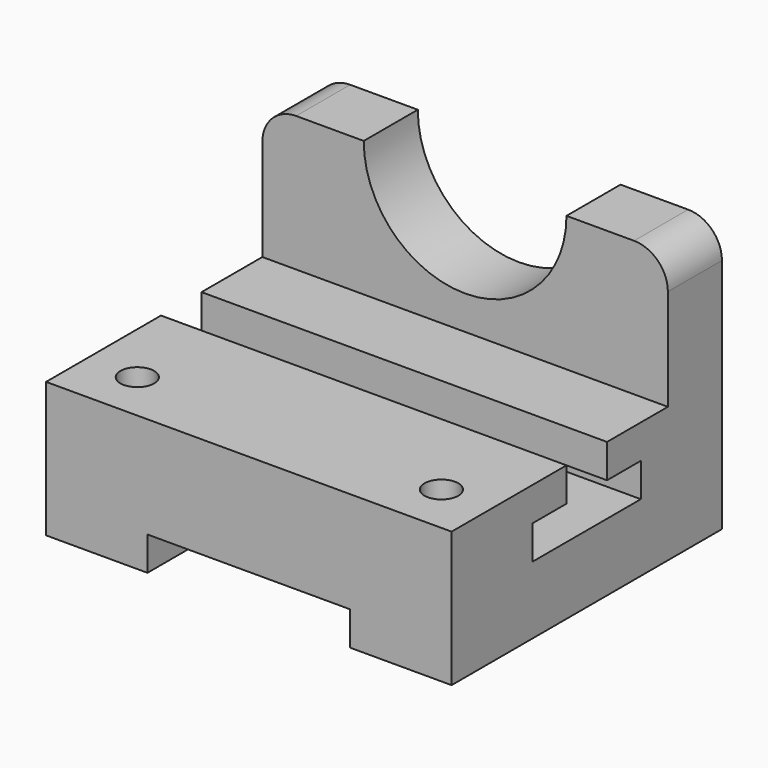
from build123d import *

# Parameters (mm, degrees)
F1_DEPTH = 152.4
F2_W     = 76.2
F2_H     = 12.7
F3_DEPTH = 127.001
F5_DEPTH = 25.4
F6_R     = 12.7
F7_R     = 6.35
F8_DEPTH = 50.801


with BuildPart() as f1:
    # F0 (on Right) → F1 (new body)
    with BuildSketch(Plane.YZ):
        Polygon((127, 0), (127, 101.6), (101.6, 101.6), (101.6, 50.8), (73.025, 50.8), (73.025, 38.1), (88.9, 38.1), (88.9, 25.4), (38.1, 25.4), (38.1, 38.1), (53.975, 38.1), (53.975, 50.8), (0, 50.8), (0, 0), align=None)
    extrude(amount=F1_DEPTH)

    # F2 (on face) → F3 (cut, through all)
    with BuildSketch(Plane.XZ):
        with Locations((76.2, 6.35)):
            Rectangle(F2_W, F2_H)
    extrude(amount=-F3_DEPTH, mode=Mode.SUBTRACT)

    # F4 (on face) → F5 (cut)
    with BuildSketch(Plane.XZ.offset(-101.6)):
        with BuildLine():
            ThreePointArc((38.1, 101.6), (76.2, 63.5), (114.3, 101.6))
            Line((114.3, 101.6), (38.1, 101.6))
        make_face()
    extrude(amount=-F5_DEPTH, mode=Mode.SUBTRACT)

    # F6
    f6_edges = [f1.edges().sort_by_distance(p)[0] for p in [
        (0, 114.3, 101.6),
        (152.4, 114.3, 101.6),
    ]]
    fillet(f6_edges, radius=F6_R)

    # F7 (on face) → F8 (cut, through all)
    with BuildSketch(Plane.XY.offset(50.8)):
        with Locations((19.05, 19.05)):
            Circle(F7_R)
        with Locations((133.35, 19.05)):
            Circle(F7_R)
    extrude(amount=-F8_DEPTH, mode=Mode.SUBTRACT)


solid = f1.part
